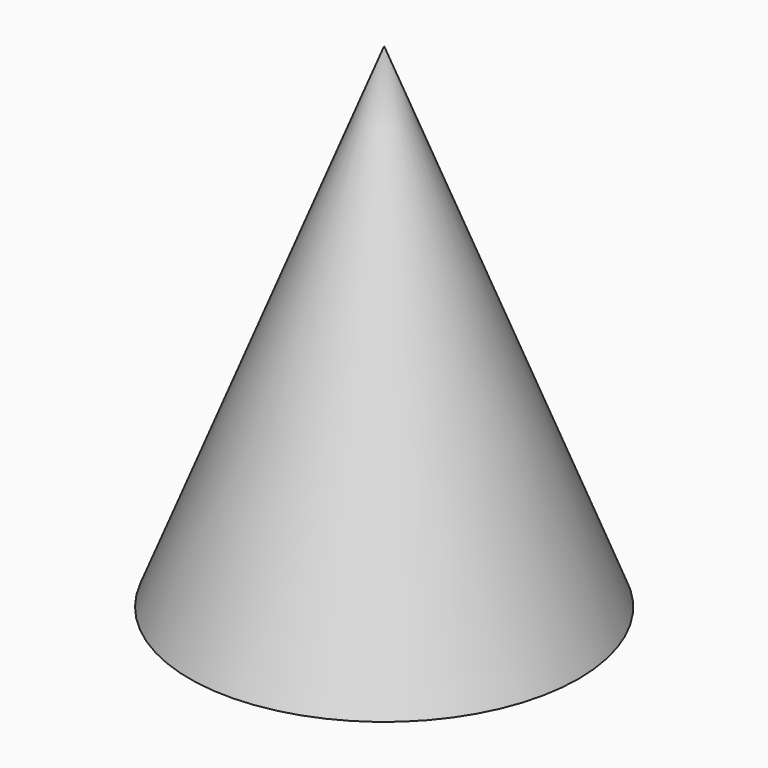
from build123d import *

# Parameters (mm, degrees)
F0_R = 63.14476


with BuildPart() as f2:
    # F0 (on Top) → F2 section 0
    with BuildSketch(Plane.XY, mode=Mode.PRIVATE) as f2_s0:
        Circle(F0_R)
    loft([f2_s0.sketch, Vertex(0, 0, 160.257474)])


solid = f2.part
